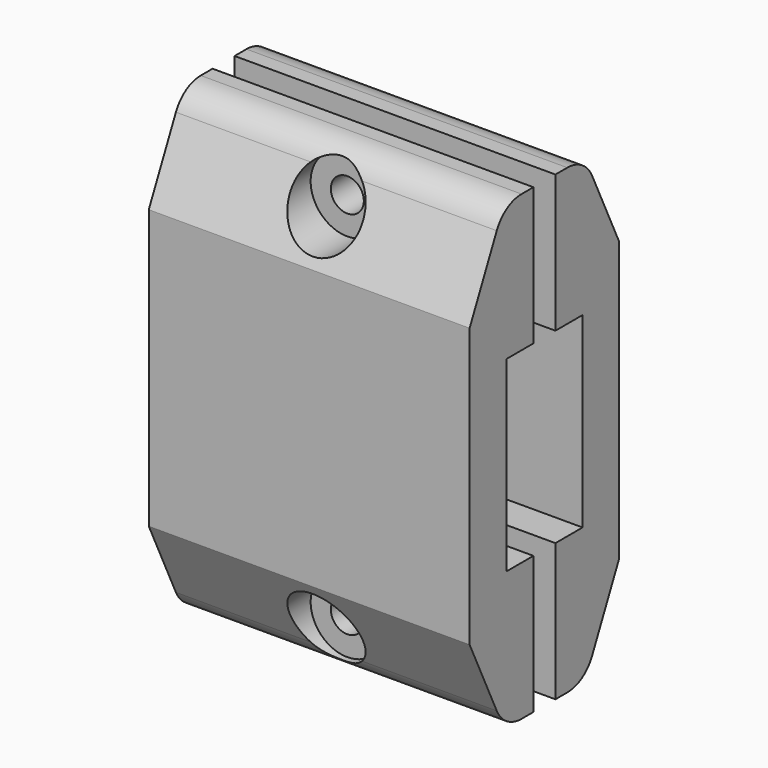
from build123d import *

# Parameters (mm, degrees)
BOX003_W                  = 35
BOX003_H                  = 3
BOX003_DEPTH              = 50.4
BOX004_W                  = 35
BOX004_H                  = 10.4
BOX004_DEPTH              = 20.4
CYLINDER007_R             = 4
CYLINDER007_DEPTH         = 20
CYLINDER096_R             = 2.2
CYLINDER096_DEPTH         = 20
CYLINDER006_R             = 1.8
CYLINDER006_DEPTH         = 20
FUSION004_PLACEMENT_ANGLE = 90
ARRAY_Z_COUNT             = 2
ARRAY_Z_PITCH             = 40.4
PAD_DEPTH                 = 35


with BuildPart() as attachment_gap:
    # Box003 → Box003 (new body)
    with BuildSketch(Plane(origin=(0, -1.5, -25.2), x_dir=(1, 0, 0), z_dir=(0, 0, 1))):
        with Locations((17.5, 1.5)):
            Rectangle(BOX003_W, BOX003_H)
    extrude(amount=BOX003_DEPTH)


with BuildPart() as profile_20x10_extract:
    # Box004 → Box004 (new body)
    with BuildSketch(Plane(origin=(0, -5.2, -10.2), x_dir=(1, 0, 0), z_dir=(0, 0, 1))):
        with Locations((17.5, 5.2)):
            Rectangle(BOX004_W, BOX004_H)
    extrude(amount=BOX004_DEPTH)


with BuildPart() as bolt_head_hole:
    # Cylinder007 → Cylinder007 (new body)
    with BuildSketch(Plane.XY.offset(17)):
        Circle(CYLINDER007_R)
    extrude(amount=CYLINDER007_DEPTH)


with BuildPart() as inserted_hole:
    # Cylinder096 → Cylinder096 (new body)
    with BuildSketch(Plane.XY.offset(-9)):
        Circle(CYLINDER096_R)
    extrude(amount=CYLINDER096_DEPTH)


with BuildPart() as obj1:
    # Cylinder006 → Cylinder006 (new body)
    with BuildSketch(Plane.XY):
        Circle(CYLINDER006_R)
    extrude(amount=CYLINDER006_DEPTH)

    # Fusion004: union bolt head hole, inserted hole
    add(bolt_head_hole.part)
    add(inserted_hole.part)


with BuildPart() as obj1_1:
    # Fusion004 placement: moved
    add(obj1.part.rotate(Axis((0, 0, 0), (1, 0, 0)), FUSION004_PLACEMENT_ANGLE))

    # Array Z: obj1_2


with BuildPart() as obj1_2:
    add(obj1_1.part)
    with Locations(*[(0, 0, i * ARRAY_Z_PITCH) for i in range(1, ARRAY_Z_COUNT)]):
        add(obj1_1.part)


with BuildPart() as obj1_3:
    # Array placement: moved
    add(obj1_2.part.moved(Location((17.5, 12, -20.2))))

    # Fusion005: union attachment gap, profile 20x10 extract
    add(attachment_gap.part)
    add(profile_20x10_extract.part)


with BuildPart() as obj2:
    # Sketch → Pad (new body)
    with BuildSketch(Plane.YZ):
        with BuildLine():
            Line((-10.2, -15.2), (-6.5, -23.055341))
            ThreePointArc((-6.5, -23.055341), (-5.12102, -24.618611), (-3.119174, -25.2))
            Line((-3.119174, -25.2), (3.119174, -25.2))
            ThreePointArc((3.119174, -25.2), (5.12102, -24.618611), (6.5, -23.055341))
            Line((6.5, -23.055341), (10.2, -15.2))
            Line((10.2, -15.2), (10.2, 15.2))
            Line((6.5, 23.055341), (10.2, 15.2))
            ThreePointArc((6.5, 23.055341), (5.12102, 24.618611), (3.119174, 25.2))
            Line((-3.119174, 25.2), (3.119174, 25.2))
            ThreePointArc((-3.119174, 25.2), (-5.12102, 24.618611), (-6.5, 23.055341))
            Line((-10.2, 15.2), (-6.5, 23.055341))
            Line((-10.2, 15.2), (-10.2, -15.2))
        make_face()
    extrude(amount=PAD_DEPTH)

    # Cut003: cut obj1
    add(obj1_3.part, mode=Mode.SUBTRACT)


with BuildPart() as obj2_1:
    # Body003 placement: moved
    add(obj2.part.moved(Location((35, 0, 0))))


solid = obj2_1.part
